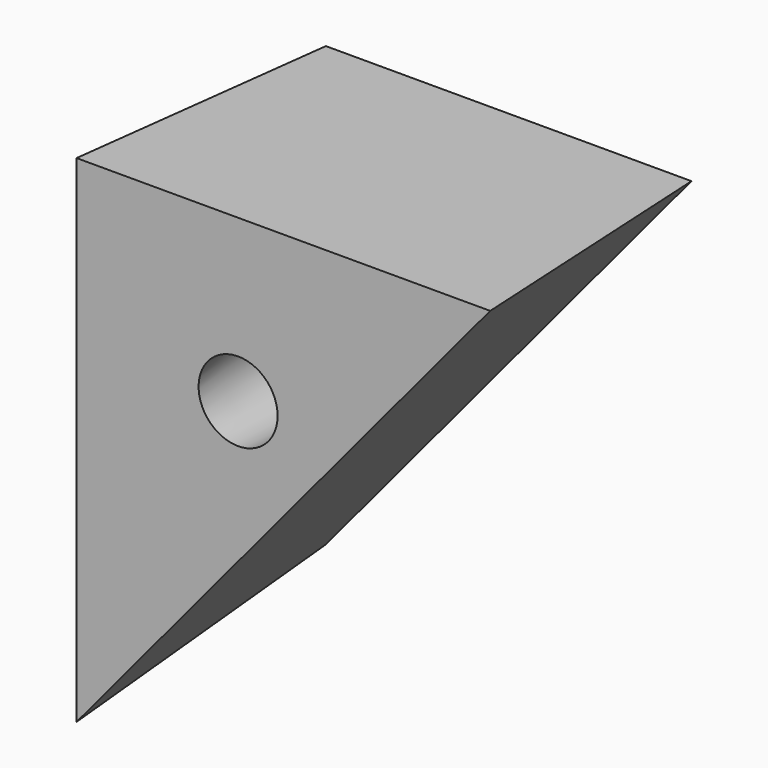
from build123d import *

# Parameters (mm, degrees)
F0_R     = 4.7625
F1_DEPTH = 25.4
F1_TAPER = -3


with BuildPart() as f1:
    # F0 (on Front) → F1 (new body)
    with BuildSketch(Plane.XZ):
        Polygon((0, 38.1), (0, 0), (31.75, 38.1), align=None)
        with Locations((12.7, 25.4)):
            Circle(F0_R, mode=Mode.SUBTRACT)
    extrude(amount=F1_DEPTH, taper=F1_TAPER)


solid = f1.part
